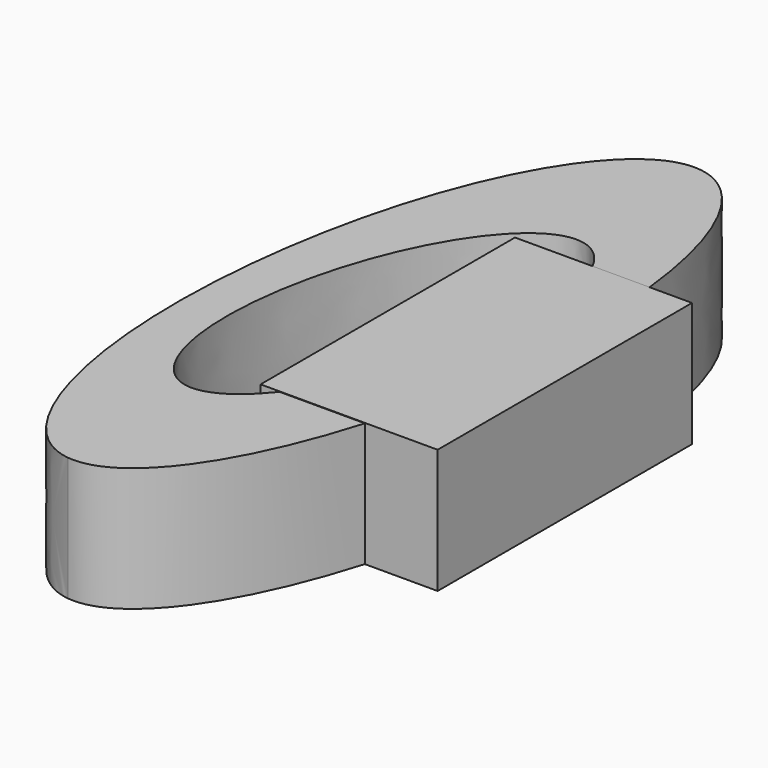
from build123d import *

# Parameters (mm, degrees)
F1_DEPTH = 23.114
F3_DEPTH = 60.452
F4_W     = 59.3101680279
F4_H     = 23.1955610216
F5_DEPTH = 33.02


with BuildPart() as f1:
    # F0 (on Top) → F1 (new body)
    with BuildSketch(Plane.XY):
        with BuildLine():
            add(Edge.make_bspline(
                [(-7.5555481017, -64.2328634858), (35.1351228345, -69.2544583556), (25.1231095189, 29.605634308), (15.1110962033, 128.4657269716), (-17.5675614173, 34.6272291778), (-50.2462190379, -59.211268616), (-7.5555481017, -64.2328634858)],
                knots=[0, 0, 0, 2.0943951024, 2.0943951024, 4.1887902048, 4.1887902048, 6.2831853072, 6.2831853072, 6.2831853072], degree=2, weights=[1, 0.5, 1, 0.5, 1, 0.5, 1]))
        make_face()
    extrude(amount=F1_DEPTH)

    # F2 (on Top) → F3 (cut)
    with BuildSketch(Plane.XY):
        with BuildLine():
            add(Edge.make_bspline(
                [(-8.8678235188, -35.5803593993), (17.0578542718, -42.0419111974), (17.3967506547, 14.5594038006), (17.7356470376, 71.1607187986), (-8.5289271359, 21.0209555987), (-34.7935013094, -29.1188076012), (-8.8678235188, -35.5803593993)],
                knots=[0, 0, 0, 2.0943951024, 2.0943951024, 4.1887902048, 4.1887902048, 6.2831853072, 6.2831853072, 6.2831853072], degree=2, weights=[1, 0.5, 1, 0.5, 1, 0.5, 1]))
        make_face()
    extrude(amount=F3_DEPTH, mode=Mode.SUBTRACT)

    # F4 (on Right) → F5 (join)
    with BuildSketch(Plane.YZ):
        with Locations((0.8808430284, 11.5977805108)):
            Rectangle(F4_W, F4_H)
    extrude(amount=F5_DEPTH)


solid = f1.part
